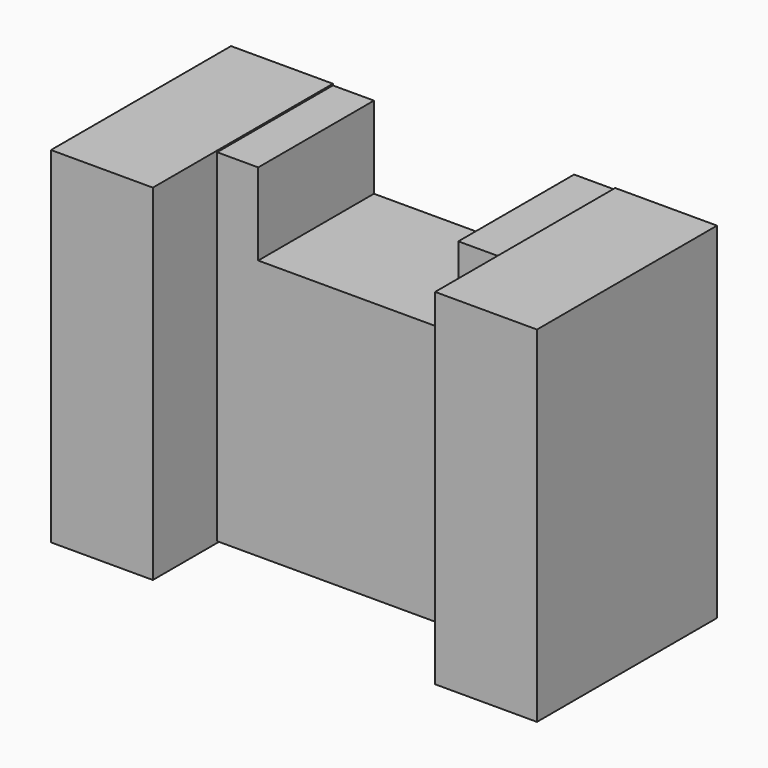
from build123d import *

# Parameters (mm, degrees)
F1_DEPTH = 18.288
F2_W     = 12.875666
F2_H     = 43.663346
F3_DEPTH = 28.448


with BuildPart() as f1:
    # F0 (on Front) → F1 (new body)
    with BuildSketch(Plane.XZ):
        Polygon((-17.839354, -21.6408), (0, -21.6408), (17.839354, -21.6408), (17.839354, 21.6408), (12.649199, 21.6408), (12.649199, 11.2776), (-12.649199, 11.2776), (-12.649199, 21.6408), (-17.839354, 21.6408), align=None)
    extrude(amount=F1_DEPTH)


with BuildPart() as f3:
    # F2 (on Front) → F3 (new body)
    with BuildSketch(Plane.XZ):
        with Locations((-24.277187, 0)):
            Rectangle(F2_W, F2_H)
        with Locations((24.277187, 0)):
            Rectangle(F2_W, F2_H)
    extrude(amount=F3_DEPTH)


solid = Compound([f1.part, f3.part])
